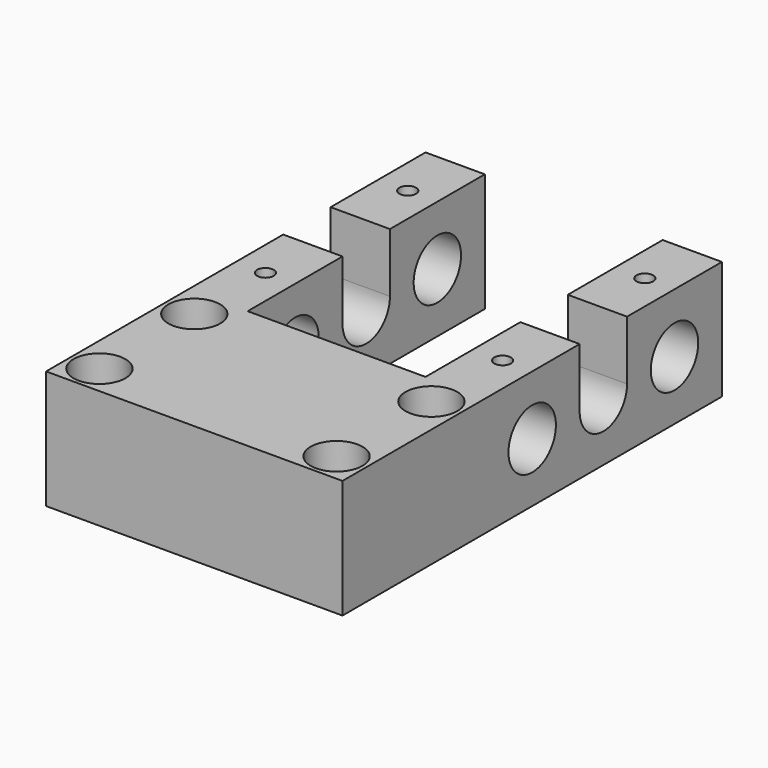
from build123d import *

# Parameters (mm, degrees)
F1_DEPTH  = 12.7
F3_D      = 2.9464
F5_D      = 6.35
F6_W      = 6.35
F6_H      = 6.35
F7_DEPTH  = 31.751
F8_DEPTH  = 31.751
F9_R      = 2.778125
F10_DEPTH = 3.175
F13_D     = 1.778
F13_DEPTH = 6.35


with BuildPart() as f1:
    # F0 (on Top) → F1 (new body)
    with BuildSketch(Plane.XY):
        Polygon((0, 19.05), (0, 0), (31.75, 0), (31.75, 19.05), (31.75, 50.8), (25.4, 50.8), (25.4, 19.05), (6.35, 19.05), (6.35, 50.8), (0, 50.8), align=None)
    extrude(amount=F1_DEPTH)

    # F3 (through all)
    with Locations(Plane.XY.offset(12.7)):
        with Locations((3.175, 15.875), (3.175, 3.175), (28.575, 15.875), (28.575, 3.175)):
            Hole(F3_D / 2)

    # F5 (through all)
    with Locations(Plane.YZ.offset(31.75)):
        with Locations((25.4, 6.35), (44.45, 6.35), (34.925, 6.35)):
            Hole(F5_D / 2)

    # F6 (on face) → F7 (cut, through all)
    with BuildSketch(Plane.YZ.offset(31.75)):
        with Locations((34.925, 9.525)):
            Rectangle(F6_W, F6_H)
    extrude(amount=-F7_DEPTH, mode=Mode.SUBTRACT)

    # F6 (on face) → F8 (cut, through all)
    with BuildSketch(Plane.YZ.offset(31.75)):
        with Locations((34.925, 9.525)):
            Rectangle(F6_W, F6_H)
    extrude(amount=-F8_DEPTH, mode=Mode.SUBTRACT)

    # F9 (on face) → F10 (cut)
    with BuildSketch(Plane.XY.offset(12.7)):
        with Locations((3.175, 3.175)):
            Circle(F9_R)
        with Locations((3.175, 15.875)):
            Circle(F9_R)
        with Locations((28.575, 3.175)):
            Circle(F9_R)
        with Locations((28.575, 15.875)):
            Circle(F9_R)
    extrude(amount=-F10_DEPTH, mode=Mode.SUBTRACT)

    # F13
    with Locations(Plane.XY.offset(12.7)):
        with Locations((3.175, 25.4), (3.175, 44.45), (28.575, 25.4), (28.575, 44.45)):
            Hole(F13_D / 2, depth=F13_DEPTH)


solid = f1.part
